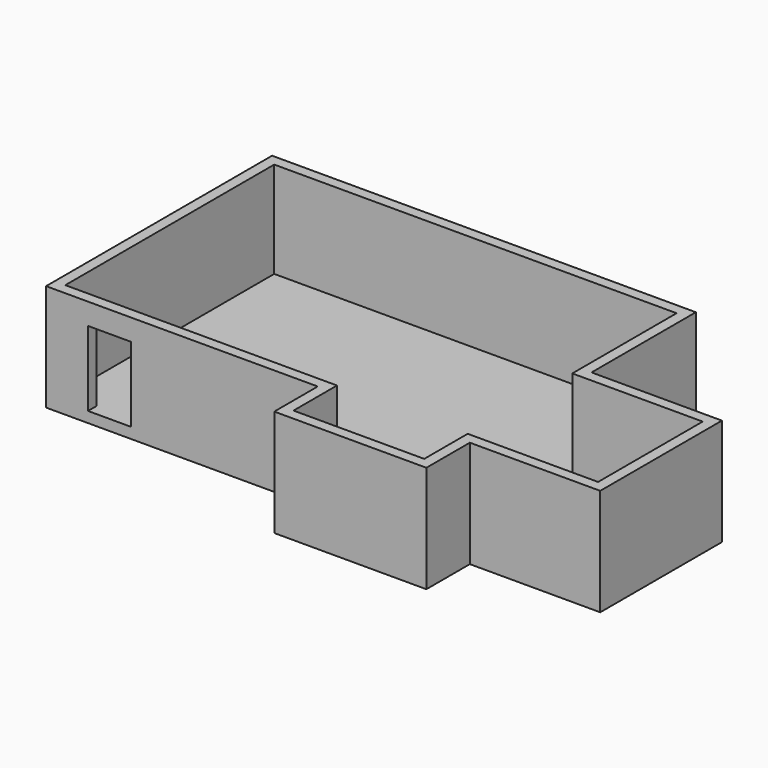
from build123d import *

# Parameters (mm, degrees)
F1_DEPTH = 25
F2_T     = -2.5
F3_W     = 10
F3_H     = 20
F4_DEPTH = 2.5
F5_DEPTH = 2.5


with BuildPart() as f1:
    # F0 (on Top) → F1 (new body)
    with BuildSketch(Plane.XY):
        Polygon((-73.6584961414, 55.3277601087), (-73.6584961414, -10.7122398913), (-10.1584961414, -10.7122398913), (-10.1584961414, -23.4122398913), (25.4015038586, -23.4122398913), (25.4015038586, -10.7122398913), (55.8815038586, -10.7122398913), (55.8815038586, 24.8477601087), (25.4015038586, 24.8477601087), (25.4015038586, 55.3277601087), align=None)
    extrude(amount=F1_DEPTH)

    # F2
    f2_openings = [f1.faces().sort_by_distance(p)[0] for p in [
        (-13.662154, 18.061578, 25),
    ]]
    offset(amount=F2_T, openings=f2_openings, kind=Kind.INTERSECTION)

    # F3 (on face) → F4 (cut)
    with BuildSketch(Plane.XZ.offset(10.7122398913)):
        with Locations((-58.8584271073, 10)):
            Rectangle(F3_W, F3_H)
    extrude(amount=-F4_DEPTH, mode=Mode.SUBTRACT)

    # F5 (add): a face of the model
    f5_faces = [f1.faces().sort_by_distance(p)[0] for p in [
        (-58.8584271073, -8.2122398913, 1.25),
    ]]
    extrude(f5_faces, amount=F5_DEPTH)


solid = f1.part
